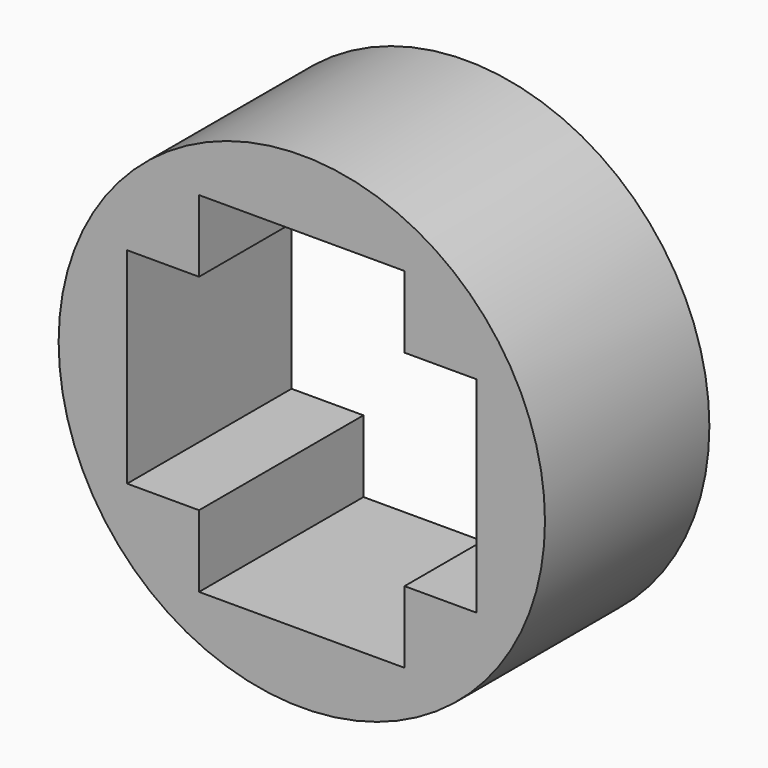
from build123d import *

# Parameters (mm, degrees)
F0_R     = 3.55
F1_DEPTH = 3


with BuildPart() as f1:
    # F0 (on Front) → F1 (new body)
    with BuildSketch(Plane.XZ):
        with Locations((-35.184518, 3.844114)):
            Circle(F0_R)
        Polygon((-37.734518, 2.344114), (-37.734518, 5.344114), (-36.684518, 5.344114), (-36.684518, 6.394114), (-33.684518, 6.394114), (-33.684518, 5.344114), (-32.634518, 5.344114), (-32.634518, 2.344114), (-33.684518, 2.344114), (-33.684518, 1.294114), (-36.684518, 1.294114), (-36.684518, 2.344114), align=None, mode=Mode.SUBTRACT)
    extrude(amount=F1_DEPTH)


solid = f1.part
